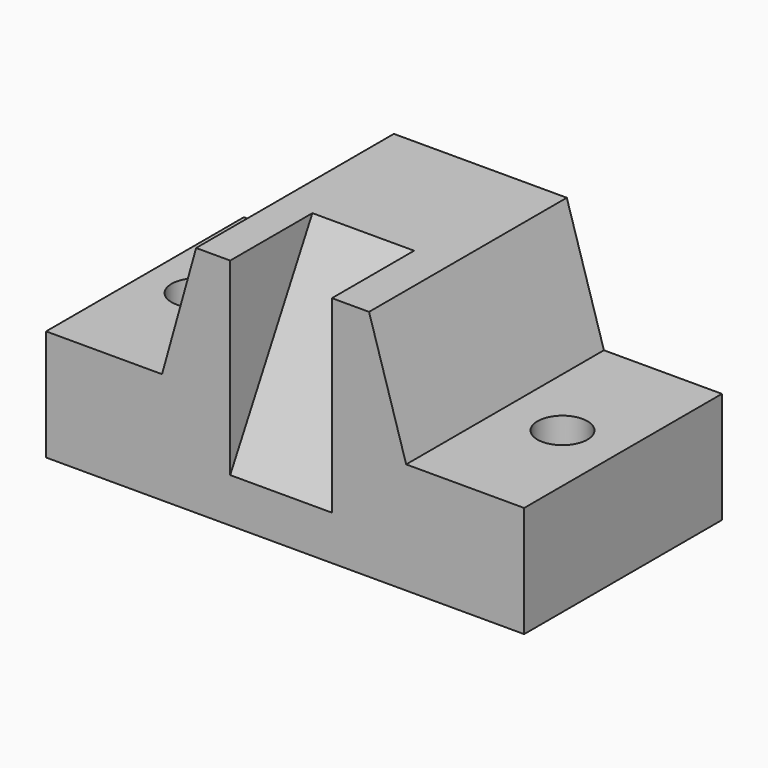
from build123d import *

# Parameters (mm, degrees)
F0_W      = 109.3159876764
F0_H      = 56.5186925232
F1_DEPTH  = 25.4
F2_W      = 55.8209288865
F2_H      = 56.5186925232
F3_DEPTH  = 27.94
F4_W      = 23.2587223873
F4_H      = 23.4913080931
F5_DEPTH  = 43.18
F7_DEPTH  = 25.4
F8_DEPTH  = 38.1
F10_DEPTH = 58.42
F12_DEPTH = 25.4
F14_D     = 11.43
F16_D     = 11.43


with BuildPart() as f1:
    # F0 (on Top) → F1 (new body)
    with BuildSketch(Plane.XY):
        with Locations((0.3488790244, 4.7680381685)):
            Rectangle(F0_W, F0_H)
    extrude(amount=F1_DEPTH)

    # F2 (on face) → F3 (join)
    with BuildSketch(Plane.XY.offset(25.4)):
        with Locations((0.1162933186, 4.7680381685)):
            Rectangle(F2_W, F2_H)
    extrude(amount=F3_DEPTH)

    # F4 (on face) → F5 (cut)
    with BuildSketch(Plane.XY.offset(53.34)):
        with Locations((-0.5814679898, -11.7456540465)):
            Rectangle(F4_W, F4_H)
    extrude(amount=-F5_DEPTH, mode=Mode.SUBTRACT)

    # F6 (on face) → F7 (cut)
    with BuildSketch(Plane.XZ.offset(23.4913080931)):
        Polygon((-27.7941711247, 25.4), (-20.0025001541, 53.34), (-27.7941711247, 53.34), align=None)
    extrude(amount=-F7_DEPTH, mode=Mode.SUBTRACT)

    # F8 (cut): a face of the model
    f8_faces = [f1.faces().sort_by_distance(p)[0] for p in [
        (-25.1969474678, 1.9086919069, 44.0266666667),
    ]]
    extrude(f8_faces, amount=-F8_DEPTH, mode=Mode.SUBTRACT)

    # F9 (on face) → F10 (cut)
    with BuildSketch(Plane.XZ.offset(23.4913080931)):
        Polygon((28.0267577618, 53.34), (19.5373254828, 53.34), (28.0267577618, 25.4), align=None)
    extrude(amount=-F10_DEPTH, mode=Mode.SUBTRACT)

    # F11 (on face) → F12 (join)
    with BuildSketch(Plane.YZ.offset(-12.2108291835)):
        Polygon((0, 10.16), (0, 53.34), (-23.4913080931, 10.16), align=None)
    extrude(amount=F12_DEPTH)

    # F14 (through all)
    with Locations(Plane.XY.offset(25.4)):
        with Locations((-42.5856821239, 4.861375317)):
            Hole(F14_D / 2)

    # F16 (through all)
    with Locations(Plane.XY.offset(25.4)):
        with Locations((41.6108891368, 4.2035188526)):
            Hole(F16_D / 2)


solid = f1.part
